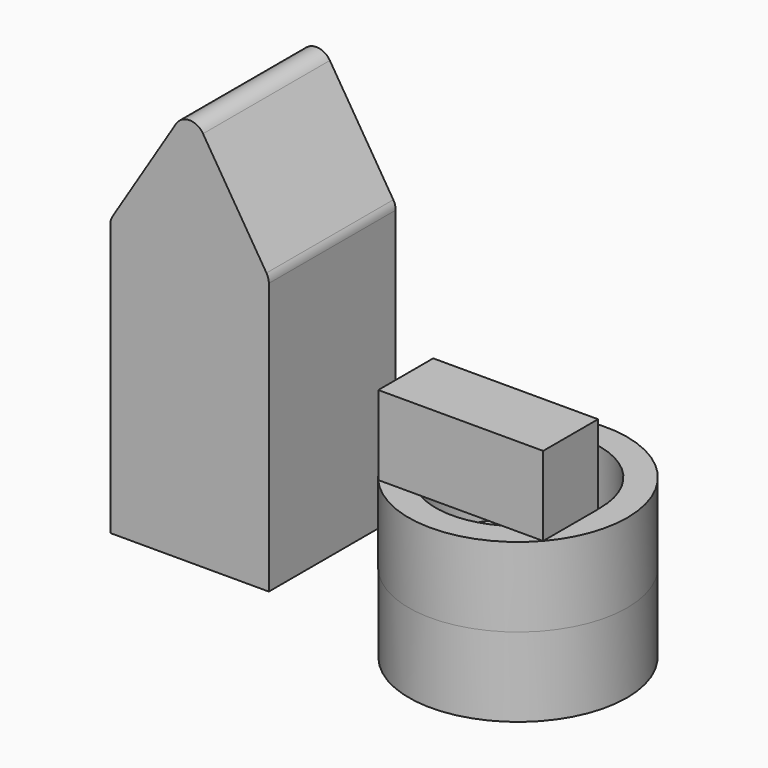
from build123d import *

# Parameters (mm, degrees)
F0_W      = 50
F0_H      = 50
F1_DEPTH  = 87
F3_DEPTH  = 50
F4_W      = 15.663402155
F4_H      = 46.6940775514
F5_DEPTH  = 5
F6_W      = 32.3581049219
F6_H      = 57.9620562494
F7_DEPTH  = 5
F8_R      = 5
F9_R      = 34.3769329791
F10_DEPTH = 25
F11_R     = 34.467652718
F11_R_2   = 25.9714115072
F12_DEPTH = 25
F13_W     = 51.9779939204
F13_H     = 21.6330016287
F14_DEPTH = 25


with BuildPart() as f1:
    # F0 (on Top) → F1 (new body)
    with BuildSketch(Plane.XY):
        with Locations((5.478881672, -1.9204340875)):
            Rectangle(F0_W, F0_H)
    extrude(amount=F1_DEPTH)

    # F2 (on face) → F3 (join)
    with BuildSketch(Plane(origin=(0, 23.0795659125, 0), x_dir=(-1, 0, 0), z_dir=(0, 1, 0))):
        Polygon((-5.478881672, 127.1920949221), (-30.478881672, 87), (19.521118328, 87), align=None)
    extrude(amount=-F3_DEPTH)

    # F4 (on face) → F5 (cut)
    with BuildSketch(Plane(origin=(0, 23.0795659125, 0), x_dir=(-1, 0, 0), z_dir=(0, 1, 0))):
        with Locations((-7.8317010775, 23.3470387757)):
            Rectangle(F4_W, F4_H)
    extrude(amount=-F5_DEPTH, mode=Mode.SUBTRACT)

    # F6 (on face) → F7 (join)
    with BuildSketch(Plane(origin=(0, 23.0795659125, 0), x_dir=(-1, 0, 0), z_dir=(0, 1, 0))):
        with Locations((-6.418493297, 28.9810281247)):
            Rectangle(F6_W, F6_H)
    extrude(amount=F7_DEPTH)

    # F8
    f8_edges = [f1.edges().sort_by_distance(p)[0] for p in [
        (5.478882, -1.920434, 127.192095),
        (30.478882, -1.920434, 87),
        (-19.521118, -1.920434, 87),
    ]]
    fillet(f8_edges, radius=F8_R)


with BuildPart() as f10:
    # F9 (on Top) → F10 (new body)
    with BuildSketch(Plane.XY):
        with Locations((100.3283709288, -16.0352047533)):
            Circle(F9_R)
    extrude(amount=F10_DEPTH)

    # F11 (on face) → F12 (join)
    with BuildSketch(Plane.XY.offset(25)):
        with Locations((100.3283709288, -16.0352047533)):
            Circle(F11_R)
        with Locations((100.3283709288, -16.0352047533)):
            Circle(F11_R_2, mode=Mode.SUBTRACT)
    extrude(amount=F12_DEPTH)

    # F13 (on face) → F14 (join)
    with BuildSketch(Plane.XY.offset(50)):
        with Locations((100.3639488405, -27.8182744353)):
            Rectangle(F13_W, F13_H)
    extrude(amount=F14_DEPTH)


solid = Compound([f1.part, f10.part])
